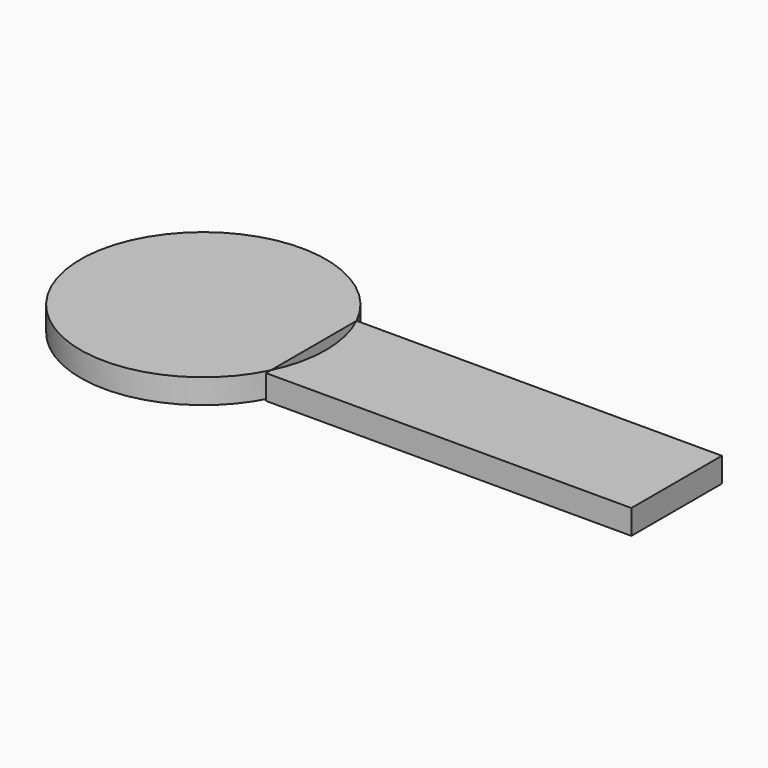
from build123d import *

# Parameters (mm, degrees)
F1_DEPTH = 2.4


with BuildPart() as f1:
    # F0 (on Top) → F1 (new body)
    with BuildSketch(Plane.XY):
        with BuildLine():
            Line((10.800133, -5.230403), (10.800133, 5.230403))
            ThreePointArc((10.800133, 5.230403), (-12, 0), (10.800133, -5.230403))
        make_face()
        with BuildLine():
            ThreePointArc((10.800133, 5.230403), (11.696187, 2.683132), (12, 0))
            ThreePointArc((12, 0), (11.696187, -2.683132), (10.800133, -5.230403))
            Line((10.800133, -5.230403), (10.800133, -5.833334))
            Line((10.800133, -5.833334), (46.513163, -5.833334))
            Line((46.513163, -5.833334), (46.513163, 5.230403))
            Line((46.513163, 5.230403), (10.800133, 5.230403))
        make_face()
    extrude(amount=F1_DEPTH)


solid = f1.part
